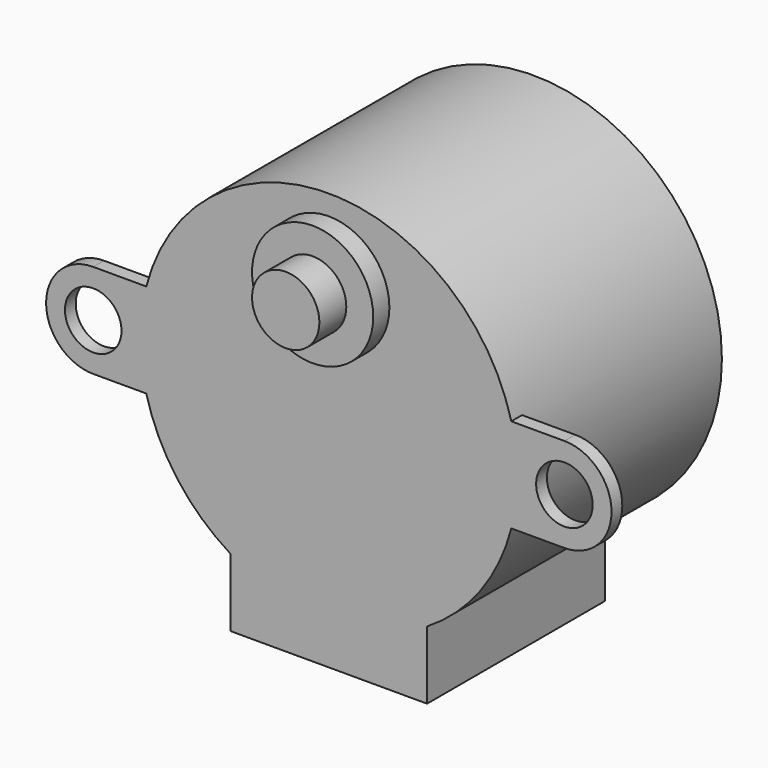
from build123d import *

# Parameters (mm, degrees)
CYLINDER004_R     = 2.5
CYLINDER004_DEPTH = 2.5
CYLINDER003_R     = 14
CYLINDER003_DEPTH = 19
SKETCH_R          = 2.1
EXTRUDE002_DEPTH  = 1
BOX003_W          = 14.6
BOX003_H          = 16.5
BOX003_DEPTH      = 17
CYLINDER002_R     = 4.5
CYLINDER002_DEPTH = 1.5


with BuildPart() as motor_shaft_part:
    # Cylinder004 → Cylinder004 (new body)
    with BuildSketch(Plane(origin=(0, -4, 8), x_dir=(1, 0, 0), z_dir=(0, 1, 0))):
        Circle(CYLINDER004_R)
    extrude(amount=CYLINDER004_DEPTH)


with BuildPart() as motor_body:
    # Cylinder003 → Cylinder003 (new body)
    with BuildSketch(Plane(origin=(0, 0, 0), x_dir=(1, 0, 0), z_dir=(0, 1, 0))):
        Circle(CYLINDER003_R)
    extrude(amount=CYLINDER003_DEPTH)


with BuildPart() as motor_bracket:
    # Sketch → Extrude002 (new body)
    with BuildSketch(Plane.XZ):
        with BuildLine():
            ThreePointArc((-17.500018, 3.5), (-21, -1.8e-05), (-17.499982, -3.5))
            Line((-17.499982, -3.5), (17.5, -3.5))
            ThreePointArc((17.5, -3.5), (21, 0), (17.5, 3.5))
            Line((-17.500018, 3.5), (17.5, 3.5))
        make_face()
        with Locations((17.5, 0)):
            Circle(SKETCH_R, mode=Mode.SUBTRACT)
        with Locations((-17.5, 0)):
            Circle(SKETCH_R, mode=Mode.SUBTRACT)
    extrude(amount=-EXTRUDE002_DEPTH)


with BuildPart() as motor_base:
    # Box003 → Box003 (new body)
    with BuildSketch(Plane(origin=(-7.3, 0, -17), x_dir=(1, 0, 0), z_dir=(0, 0, 1))):
        with Locations((7.3, 8.25)):
            Rectangle(BOX003_W, BOX003_H)
    extrude(amount=BOX003_DEPTH)


with BuildPart() as motor:
    # Cylinder002 → Cylinder002 (new body)
    with BuildSketch(Plane(origin=(0, -1.5, 8), x_dir=(1, 0, 0), z_dir=(0, 1, 0))):
        Circle(CYLINDER002_R)
    extrude(amount=CYLINDER002_DEPTH)

    # Fusion003: union motor_shaft_part, motor_body, motor_bracket, motor_base
    add(motor_shaft_part.part)
    add(motor_body.part)
    add(motor_bracket.part)
    add(motor_base.part)


with BuildPart() as motor_1:
    # Fusion003 placement: moved
    add(motor.part.moved(Location((0, 9, -8))))


solid = motor_1.part
